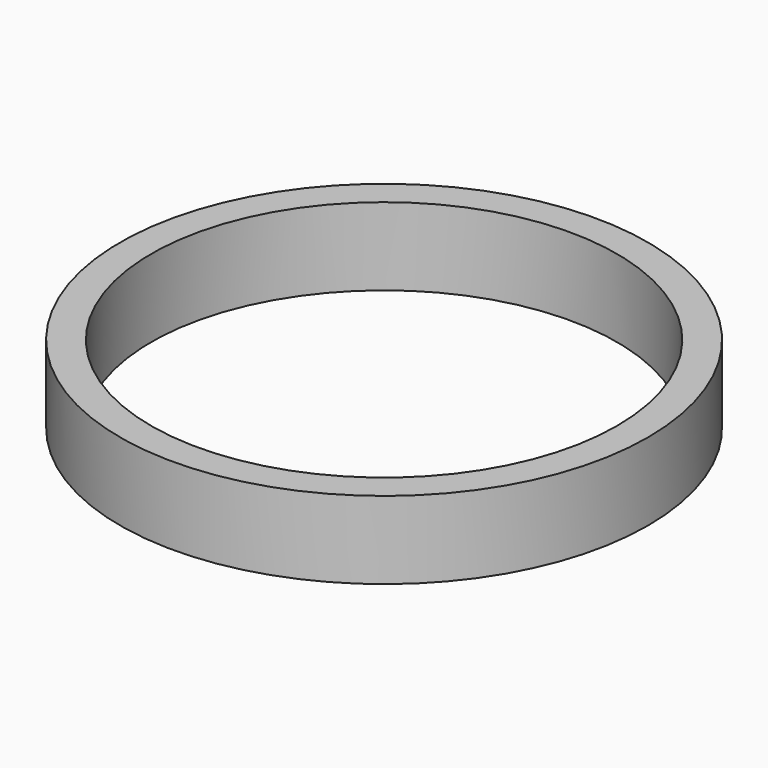
from build123d import *

# Parameters (mm, degrees)
SKETCH_R   = 10.2
SKETCH_R_2 = 9
PAD_DEPTH  = 3


with BuildPart() as part:
    # Sketch → Pad (new body)
    with BuildSketch(Plane.XY):
        Circle(SKETCH_R)
        Circle(SKETCH_R_2, mode=Mode.SUBTRACT)
    extrude(amount=PAD_DEPTH)


solid = part.part
